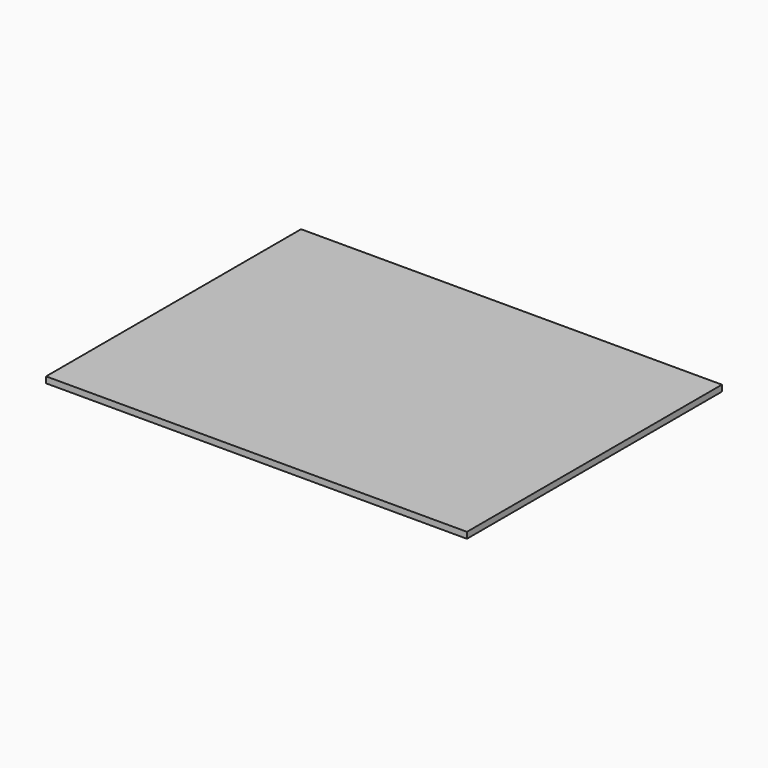
from build123d import *

# Parameters (mm, degrees)
SKETCH_W  = 445
SKETCH_H  = 337
PAD_DEPTH = 6.5


with BuildPart() as part:
    # Sketch → Pad (new body)
    with BuildSketch(Plane.XY):
        Rectangle(SKETCH_W, SKETCH_H)
    extrude(amount=PAD_DEPTH)


solid = part.part
